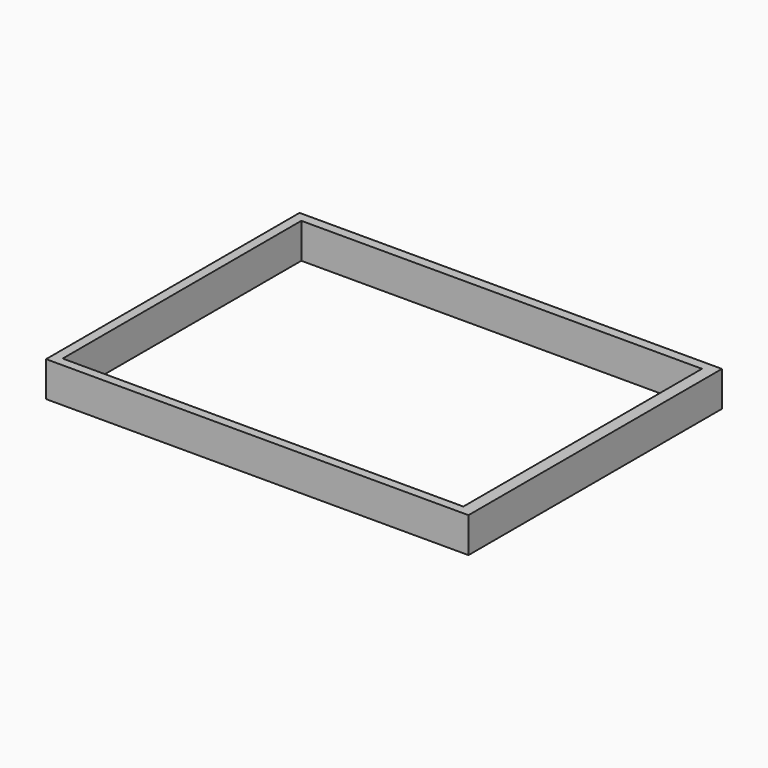
from build123d import *

# Parameters (mm, degrees)
F0_W     = 76.2
F0_H     = 57.15
F1_DEPTH = 3.175
F2_W     = 72.280051
F2_H     = 53.808485
F3_DEPTH = 6.35


with BuildPart() as f1:
    # F0 (on Top) → F1 (new body, symmetric)
    with BuildSketch(Plane.XY):
        with Locations((9.986312, -6.360359)):
            Rectangle(F0_W, F0_H)
    extrude(amount=F1_DEPTH, both=True)

    # F2 (on face) → F3 (cut, through all)
    with BuildSketch(Plane.XY.offset(3.175)):
        with Locations((9.73773, -6.424894)):
            Rectangle(F2_W, F2_H)
    extrude(amount=-F3_DEPTH, mode=Mode.SUBTRACT)


solid = f1.part
